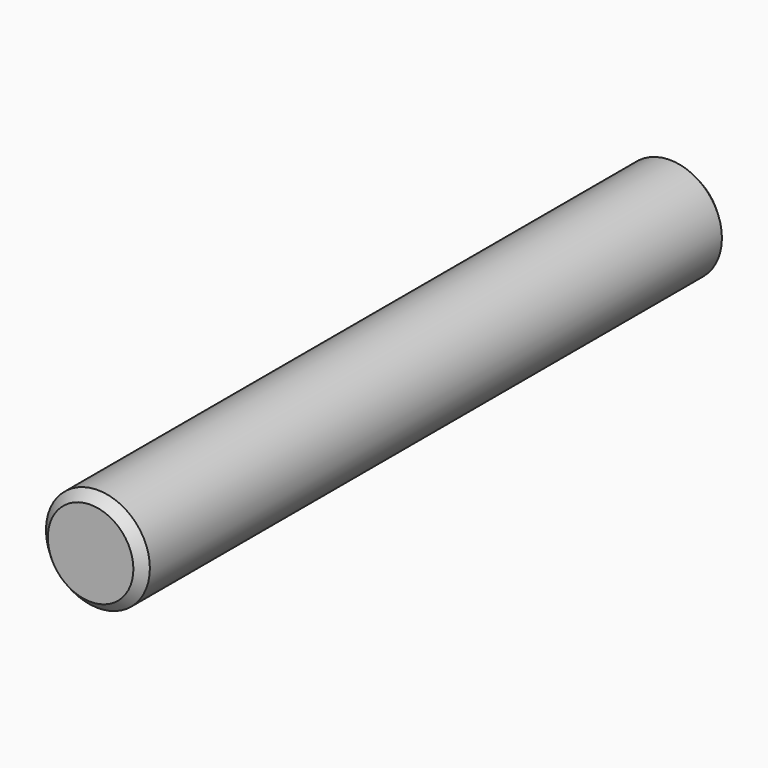
from build123d import *

# Parameters (mm, degrees)
F0_R          = 8.5
F1_DEPTH      = 60
F1_DEPTH_BACK = 60
F2_SIZE       = 1.5


with BuildPart() as f1:
    # F0 (on Front) → F1 (new body, two sides)
    with BuildSketch(Plane.XZ) as f1_sk:
        Circle(F0_R)
    extrude(amount=F1_DEPTH)
    extrude(f1_sk.sketch, amount=-F1_DEPTH_BACK)

    # F2
    f2_edges = [f1.edges().sort_by_distance(p)[0] for p in [
        (-8.5, -60, 0),
        (-8.5, 60, 0),
    ]]
    chamfer(f2_edges, length=F2_SIZE)


solid = f1.part
